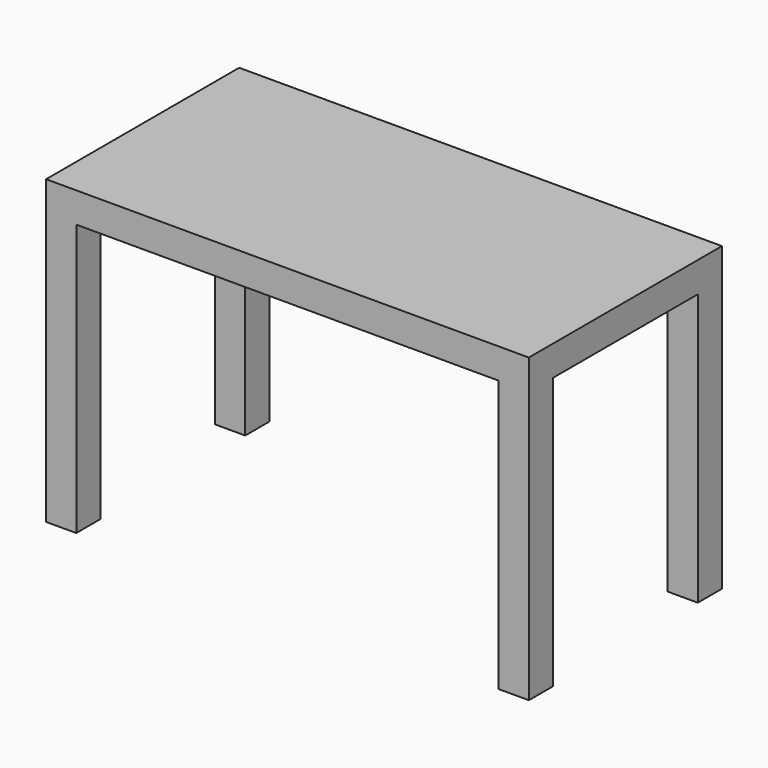
from build123d import *

# Parameters (mm, degrees)
F0_W     = 76.2
F0_H     = 76.2
F1_DEPTH = 76.2
F2_DEPTH = 762


with BuildPart() as f1:
    # F0 (on Top) → F1 (new body)
    with BuildSketch(Plane.XY):
        with Locations((38.1, -38.1)):
            Rectangle(F0_W, F0_H)
        Polygon((1143, 0), (76.2, 0), (76.2, -76.2), (0, -76.2), (0, -533.4), (76.2, -533.4), (76.2, -609.6), (1143, -609.6), (1143, -533.4), (1219.2, -533.4), (1219.2, -76.2), (1143, -76.2), align=None)
        with Locations((1181.1, -38.1)):
            Rectangle(F0_W, F0_H)
        with Locations((38.1, -571.5)):
            Rectangle(F0_W, F0_H)
        with Locations((1181.1, -571.5)):
            Rectangle(F0_W, F0_H)
    extrude(amount=-F1_DEPTH)

    # F0 (on Top) → F2 (join)
    with BuildSketch(Plane.XY):
        with Locations((38.1, -38.1)):
            Rectangle(F0_W, F0_H)
        with Locations((38.1, -571.5)):
            Rectangle(F0_W, F0_H)
        with Locations((1181.1, -38.1)):
            Rectangle(F0_W, F0_H)
        with Locations((1181.1, -571.5)):
            Rectangle(F0_W, F0_H)
    extrude(amount=-F2_DEPTH)


solid = f1.part
